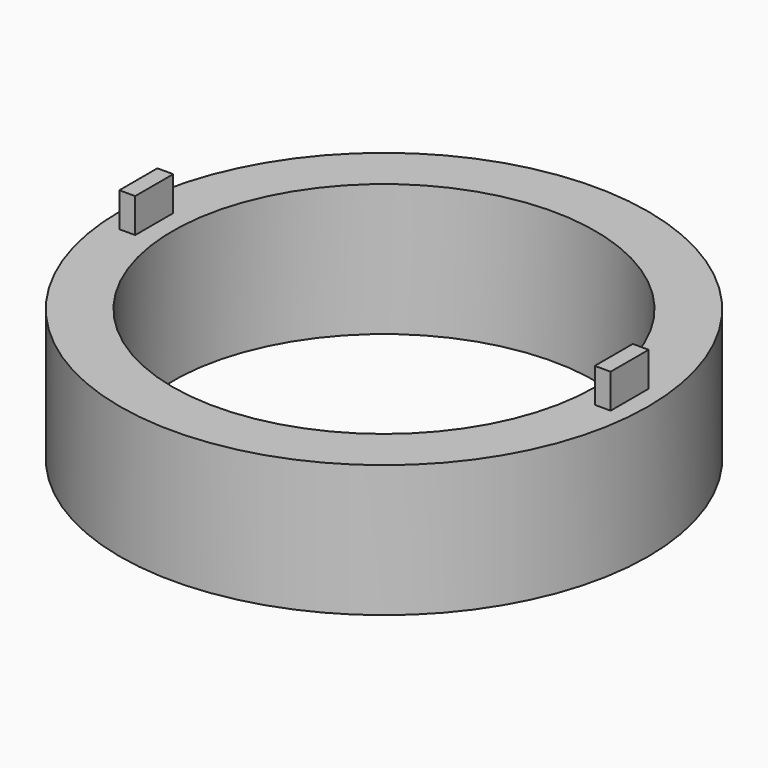
from build123d import *

# Parameters (mm, degrees)
F0_W     = 0.6
F0_H     = 1.8
F1_DEPTH = 6.3
F0_R     = 10
F0_R_2   = 8
F2_DEPTH = 5


with BuildPart() as f1:
    # F0 (on Top) → F1 (new body)
    with BuildSketch(Plane.XY):
        with Locations((-9, 0)):
            Rectangle(F0_W, F0_H)
    extrude(amount=F1_DEPTH)



with BuildPart() as f1b:
    # F0 (on Top) → F1, piece 2 (new body)
    with BuildSketch(Plane.XY):
        with Locations((9, 0)):
            Rectangle(F0_W, F0_H)
    extrude(amount=F1_DEPTH)


with BuildPart() as f1_1:
    add(f1.part)

    add(f1b.part)  # F2 merges F1b
    # F0 (on Top) → F2 (join)
    with BuildSketch(Plane.XY):
        Circle(F0_R)
        with Locations((-9, 0)):
            Rectangle(F0_W, F0_H, mode=Mode.SUBTRACT)
        Circle(F0_R_2, mode=Mode.SUBTRACT)
        with Locations((9, 0)):
            Rectangle(F0_W, F0_H, mode=Mode.SUBTRACT)
    extrude(amount=F2_DEPTH)


solid = f1_1.part
